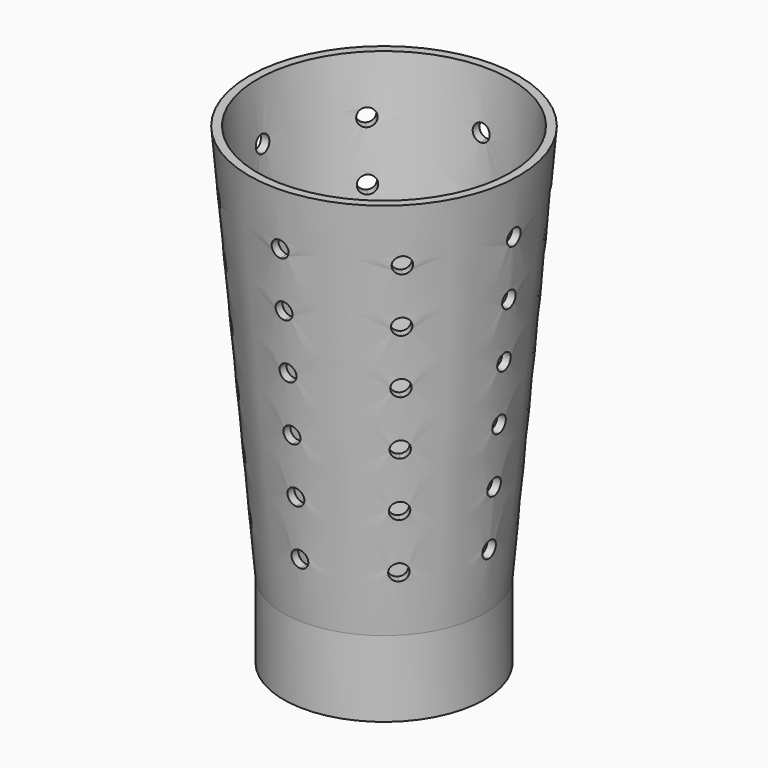
from build123d import *

# Parameters (mm, degrees)
F0_W     = 1
F0_H     = 9
F3_DEPTH = 25
F5_ANGLE = 45
F7_ANGLE = 90
F9_ANGLE = 135


with BuildPart() as f1:
    # F0 (on Front) → F1 (revolve)
    with BuildSketch(Plane.XZ):
        Polygon((16, 37.5789876357), (15, 37.5789876357), (10.9, -9.4210123643), (11.9, -9.4210123643), align=None)
        with Locations((11.4, -13.9210123643)):
            Rectangle(F0_W, F0_H)
    revolve(axis=Axis((0, 0, 14.0789876357), (0, 0, -1)))


with BuildPart() as f3:
    # F2 (on Front) → F3 (new body, symmetric)
    with BuildSketch(Plane.XZ):
        with BuildLine():
            ThreePointArc((0, 32.0137239056), (-1, 31.0137239056), (0, 30.0137239056))
            Line((0, 30.0137239056), (0, 31.0137239056))
            Line((0, 31.0137239056), (0, 32.0137239056))
        make_face()
        with BuildLine():
            Line((0, 31.0137239056), (0, 30.0137239056))
            ThreePointArc((0, 30.0137239056), (0.7071067812, 30.3066171244), (1, 31.0137239056))
            ThreePointArc((1, 31.0137239056), (0.7071067812, 31.7208306868), (0, 32.0137239056))
            Line((0, 32.0137239056), (0, 31.0137239056))
        make_face()
    extrude(amount=F3_DEPTH, both=True)


with BuildPart() as f3b:
    # F2 (on Front) → F3, piece 2 (new body, symmetric)
    with BuildSketch(Plane.XZ):
        with BuildLine():
            ThreePointArc((0, 25.3037239056), (-1, 24.3037239056), (0, 23.3037239056))
            Line((0, 23.3037239056), (0, 24.3037239056))
            Line((0, 24.3037239056), (0, 25.3037239056))
        make_face()
        with BuildLine():
            Line((0, 24.3037239056), (0, 23.3037239056))
            ThreePointArc((0, 23.3037239056), (0.7071067812, 23.5966171244), (1, 24.3037239056))
            ThreePointArc((1, 24.3037239056), (0.7071067812, 25.0108306868), (0, 25.3037239056))
            Line((0, 25.3037239056), (0, 24.3037239056))
        make_face()
    extrude(amount=F3_DEPTH, both=True)


with BuildPart() as f3c:
    # F2 (on Front) → F3, piece 3 (new body, symmetric)
    with BuildSketch(Plane.XZ):
        with BuildLine():
            ThreePointArc((0, 18.5937239056), (-1, 17.5937239056), (0, 16.5937239056))
            Line((0, 16.5937239056), (0, 17.5937239056))
            Line((0, 17.5937239056), (0, 18.5937239056))
        make_face()
        with BuildLine():
            Line((0, 17.5937239056), (0, 16.5937239056))
            ThreePointArc((0, 16.5937239056), (0.7071067812, 16.8866171244), (1, 17.5937239056))
            ThreePointArc((1, 17.5937239056), (0.7071067812, 18.3008306868), (0, 18.5937239056))
            Line((0, 18.5937239056), (0, 17.5937239056))
        make_face()
    extrude(amount=F3_DEPTH, both=True)


with BuildPart() as f3d:
    # F2 (on Front) → F3, piece 4 (new body, symmetric)
    with BuildSketch(Plane.XZ):
        with BuildLine():
            ThreePointArc((0, 11.8837239056), (-1, 10.8837239056), (0, 9.8837239056))
            Line((0, 9.8837239056), (0, 10.8837239056))
            Line((0, 10.8837239056), (0, 11.8837239056))
        make_face()
        with BuildLine():
            Line((0, 10.8837239056), (0, 9.8837239056))
            ThreePointArc((0, 9.8837239056), (0.7071067812, 10.1766171244), (1, 10.8837239056))
            ThreePointArc((1, 10.8837239056), (0.7071067812, 11.5908306868), (0, 11.8837239056))
            Line((0, 11.8837239056), (0, 10.8837239056))
        make_face()
    extrude(amount=F3_DEPTH, both=True)


with BuildPart() as f3e:
    # F2 (on Front) → F3, piece 5 (new body, symmetric)
    with BuildSketch(Plane.XZ):
        with BuildLine():
            ThreePointArc((0, 5.1737239056), (-1, 4.1737239056), (0, 3.1737239056))
            Line((0, 3.1737239056), (0, 4.1737239056))
            Line((0, 4.1737239056), (0, 5.1737239056))
        make_face()
        with BuildLine():
            Line((0, 4.1737239056), (0, 3.1737239056))
            ThreePointArc((0, 3.1737239056), (0.7071067812, 3.4666171244), (1, 4.1737239056))
            ThreePointArc((1, 4.1737239056), (0.7071067812, 4.8808306868), (0, 5.1737239056))
            Line((0, 5.1737239056), (0, 4.1737239056))
        make_face()
    extrude(amount=F3_DEPTH, both=True)


with BuildPart() as f3f:
    # F2 (on Front) → F3, piece 6 (new body, symmetric)
    with BuildSketch(Plane.XZ):
        with BuildLine():
            ThreePointArc((1, -2.5362760944), (0.7071067812, -1.8291693132), (0, -1.5362760944))
            Line((0, -1.5362760944), (0, -2.5362760944))
            Line((0, -2.5362760944), (0, -3.5362760944))
            ThreePointArc((0, -3.5362760944), (0.7071067812, -3.2433828756), (1, -2.5362760944))
        make_face()
        with BuildLine():
            Line((0, -2.5362760944), (0, -1.5362760944))
            ThreePointArc((0, -1.5362760944), (-1, -2.5362760944), (0, -3.5362760944))
            Line((0, -3.5362760944), (0, -2.5362760944))
        make_face()
    extrude(amount=F3_DEPTH, both=True)


with BuildPart() as f5_1:
    # F5: copy of F3
    add(f3.part.rotate(Axis((0, 0, 8.8171008974), (0, 0, -1)), F5_ANGLE))


with BuildPart() as f5_2:
    # F5: copy of F3b
    add(f3b.part.rotate(Axis((0, 0, 8.8171008974), (0, 0, -1)), F5_ANGLE))


with BuildPart() as f5_3:
    # F5: copy of F3c
    add(f3c.part.rotate(Axis((0, 0, 8.8171008974), (0, 0, -1)), F5_ANGLE))


with BuildPart() as f5_4:
    # F5: copy of F3d
    add(f3d.part.rotate(Axis((0, 0, 8.8171008974), (0, 0, -1)), F5_ANGLE))


with BuildPart() as f5_5:
    # F5: copy of F3e
    add(f3e.part.rotate(Axis((0, 0, 8.8171008974), (0, 0, -1)), F5_ANGLE))


with BuildPart() as f5_6:
    # F5: copy of F3f
    add(f3f.part.rotate(Axis((0, 0, 8.8171008974), (0, 0, -1)), F5_ANGLE))


with BuildPart() as f7_1:
    # F7: copy of F3
    add(f3.part.rotate(Axis((0, 0, 1.6909521073), (0, 0, -1)), F7_ANGLE))


with BuildPart() as f7_2:
    # F7: copy of F3b
    add(f3b.part.rotate(Axis((0, 0, 1.6909521073), (0, 0, -1)), F7_ANGLE))


with BuildPart() as f7_3:
    # F7: copy of F3c
    add(f3c.part.rotate(Axis((0, 0, 1.6909521073), (0, 0, -1)), F7_ANGLE))


with BuildPart() as f7_4:
    # F7: copy of F3d
    add(f3d.part.rotate(Axis((0, 0, 1.6909521073), (0, 0, -1)), F7_ANGLE))


with BuildPart() as f7_5:
    # F7: copy of F3e
    add(f3e.part.rotate(Axis((0, 0, 1.6909521073), (0, 0, -1)), F7_ANGLE))


with BuildPart() as f7_6:
    # F7: copy of F3f
    add(f3f.part.rotate(Axis((0, 0, 1.6909521073), (0, 0, -1)), F7_ANGLE))


with BuildPart() as f9_1:
    # F9: copy of F3
    add(f3.part.rotate(Axis((0, 0, 5.6767649949), (0, 0, -1)), F9_ANGLE))


with BuildPart() as f9_2:
    # F9: copy of F3b
    add(f3b.part.rotate(Axis((0, 0, 5.6767649949), (0, 0, -1)), F9_ANGLE))


with BuildPart() as f9_3:
    # F9: copy of F3c
    add(f3c.part.rotate(Axis((0, 0, 5.6767649949), (0, 0, -1)), F9_ANGLE))


with BuildPart() as f9_4:
    # F9: copy of F3d
    add(f3d.part.rotate(Axis((0, 0, 5.6767649949), (0, 0, -1)), F9_ANGLE))


with BuildPart() as f9_5:
    # F9: copy of F3e
    add(f3e.part.rotate(Axis((0, 0, 5.6767649949), (0, 0, -1)), F9_ANGLE))


with BuildPart() as f9_6:
    # F9: copy of F3f
    add(f3f.part.rotate(Axis((0, 0, 5.6767649949), (0, 0, -1)), F9_ANGLE))


with BuildPart() as f1_1:
    add(f1.part)

    # F10: cut F7_1, F7_2, F7_3, F7_4, F7_5, F7_6, F3f, F3e, F3d, F3c, F3b, F3, F9_1, F9_2, F9_3, F9_4, F9_5, F9_6, F5_1, F5_2, F5_3, F5_4, F5_5, F5_6
    add(f7_1.part, mode=Mode.SUBTRACT)
    add(f7_2.part, mode=Mode.SUBTRACT)
    add(f7_3.part, mode=Mode.SUBTRACT)
    add(f7_4.part, mode=Mode.SUBTRACT)
    add(f7_5.part, mode=Mode.SUBTRACT)
    add(f7_6.part, mode=Mode.SUBTRACT)
    add(f3f.part, mode=Mode.SUBTRACT)
    add(f3e.part, mode=Mode.SUBTRACT)
    add(f3d.part, mode=Mode.SUBTRACT)
    add(f3c.part, mode=Mode.SUBTRACT)
    add(f3b.part, mode=Mode.SUBTRACT)
    add(f3.part, mode=Mode.SUBTRACT)
    add(f9_1.part, mode=Mode.SUBTRACT)
    add(f9_2.part, mode=Mode.SUBTRACT)
    add(f9_3.part, mode=Mode.SUBTRACT)
    add(f9_4.part, mode=Mode.SUBTRACT)
    add(f9_5.part, mode=Mode.SUBTRACT)
    add(f9_6.part, mode=Mode.SUBTRACT)
    add(f5_1.part, mode=Mode.SUBTRACT)
    add(f5_2.part, mode=Mode.SUBTRACT)
    add(f5_3.part, mode=Mode.SUBTRACT)
    add(f5_4.part, mode=Mode.SUBTRACT)
    add(f5_5.part, mode=Mode.SUBTRACT)
    add(f5_6.part, mode=Mode.SUBTRACT)


solid = f1_1.part
